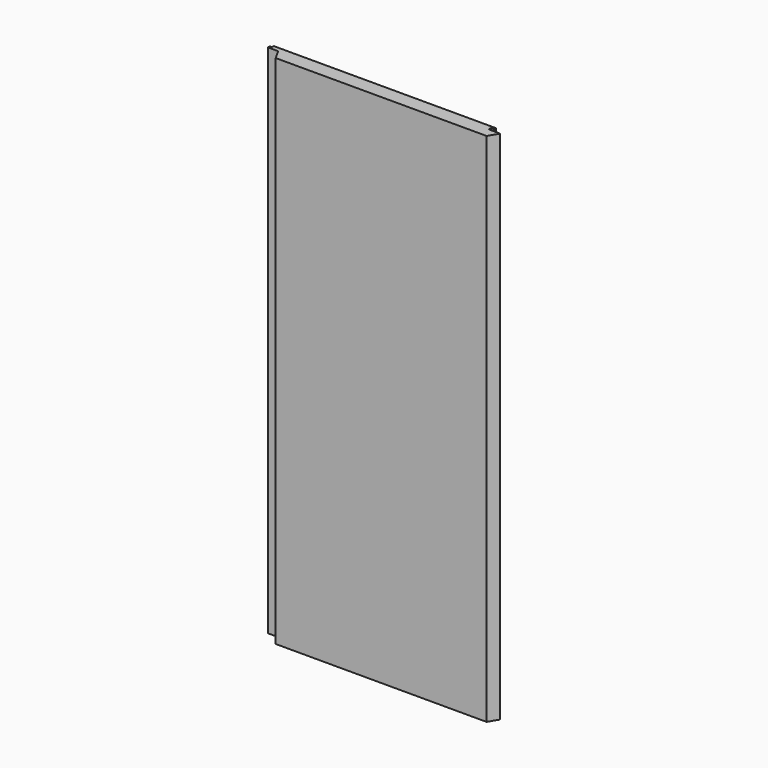
from build123d import *

# Parameters (mm, degrees)
PAD_DEPTH = 450


with BuildPart() as part:
    # Sketch → Pad (new body)
    with BuildSketch(Plane.XY):
        Polygon((0, 0), (184, 0), (189, 8.5), (184, 8.5), (179, 8.5), (179, 11), (182, 11), (182, 13), (-12, 13), (-12, 11), (-14, 11), (-14, 9), (-5, 9), align=None)
    extrude(amount=PAD_DEPTH)


solid = part.part
